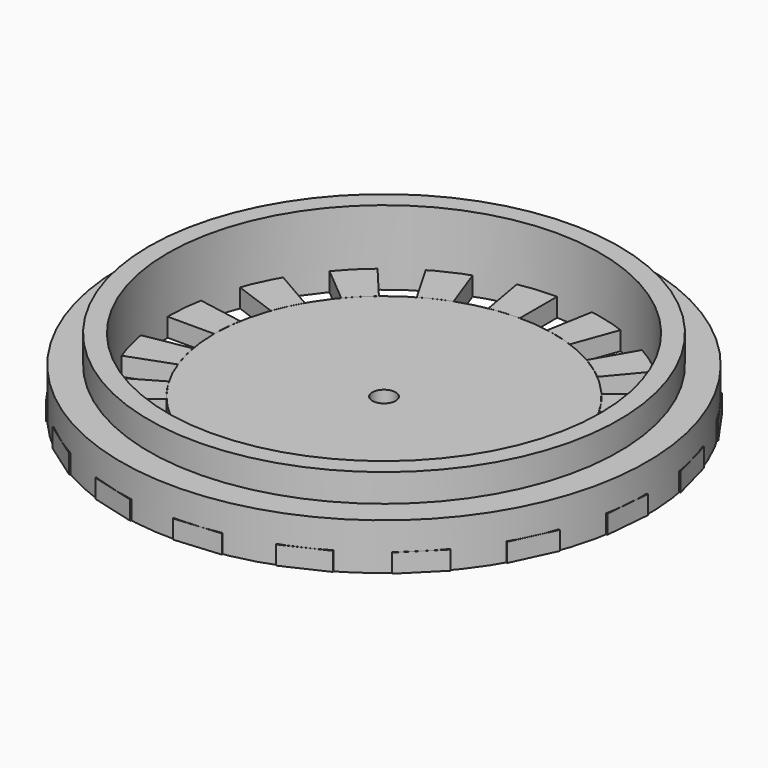
from build123d import *

# Parameters (mm, degrees)
F0_W     = 17
F0_H     = 2
F0_W_2   = 3
F0_H_2   = 5
F3_DEPTH = 2


with BuildPart() as f1:
    # F0 (on Front) → F1 (revolve)
    with BuildSketch(Plane.XZ):
        with Locations((-9.75, 1)):
            Rectangle(F0_W, F0_H)
        Polygon((-25.25, 0), (-23.25, 0), (-23.25, 8), (-25.25, 8), (-25.25, 5), align=None)
        with Locations((-26.75, 2.5)):
            Rectangle(F0_W_2, F0_H_2)
    revolve(axis=Axis((0, 0, -5.287794), (0, 0, -1)))


with BuildPart() as f3:
    # F2 (on face) → F3 (new body)
    with BuildSketch(Plane(origin=(0, 0, 0), x_dir=(1, 0, 0), z_dir=(0, 0, -1))):
        with BuildLine():
            ThreePointArc((11.730874, -13.980311), (10.46777, -14.949525), (9.125, -15.804964))
            Line((9.125, -15.804964), (14.177606, -24.556333))
            Line((14.177606, -24.556333), (18.226378, -21.721352))
            Line((18.226378, -21.721352), (11.730874, -13.980311))
        make_face()
        with BuildLine():
            ThreePointArc((6.241868, -17.14939), (4.723448, -17.628146), (3.169079, -17.972741))
            Line((3.169079, -17.972741), (4.923831, -27.924432))
            Line((4.923831, -27.924432), (9.698053, -26.645183))
            Line((9.698053, -26.645183), (6.241868, -17.14939))
        make_face()
        with BuildLine():
            Line((0, -28.355211), (0, -18.25))
            ThreePointArc((0, -18.25), (-1.590592, -18.180553), (-3.169079, -17.972741))
            Line((-3.169079, -17.972741), (-4.923831, -27.924432))
            Line((-4.923831, -27.924432), (0, -28.355211))
        make_face()
        with BuildLine():
            Line((-9.698053, -26.645183), (-6.241868, -17.14939))
            ThreePointArc((-6.241868, -17.14939), (-7.712783, -16.540117), (-9.125, -15.804964))
            Line((-9.125, -15.804964), (-14.177606, -24.556333))
            Line((-14.177606, -24.556333), (-9.698053, -26.645183))
        make_face()
        with BuildLine():
            Line((-18.226378, -21.721352), (-11.730874, -13.980311))
            ThreePointArc((-11.730874, -13.980311), (-12.904699, -12.904699), (-13.980311, -11.730874))
            Line((-13.980311, -11.730874), (-21.721352, -18.226378))
            Line((-21.721352, -18.226378), (-18.226378, -21.721352))
        make_face()
        with BuildLine():
            Line((-24.556333, -14.177606), (-15.804964, -9.125))
            ThreePointArc((-15.804964, -9.125), (-16.540117, -7.712783), (-17.14939, -6.241868))
            Line((-17.14939, -6.241868), (-26.645183, -9.698053))
            Line((-26.645183, -9.698053), (-24.556333, -14.177606))
        make_face()
        with BuildLine():
            Line((-27.924432, -4.923831), (-17.972741, -3.169079))
            ThreePointArc((-17.972741, -3.169079), (-18.180553, -1.590592), (-18.25, 0))
            Line((-18.25, 0), (-28.355211, 0))
            Line((-28.355211, 0), (-27.924432, -4.923831))
        make_face()
        with BuildLine():
            Line((-27.924432, 4.923831), (-17.972741, 3.169079))
            ThreePointArc((-17.972741, 3.169079), (-17.628146, 4.723448), (-17.14939, 6.241868))
            Line((-17.14939, 6.241868), (-26.645183, 9.698053))
            Line((-26.645183, 9.698053), (-27.924432, 4.923831))
        make_face()
        with BuildLine():
            Line((-24.556333, 14.177606), (-15.804964, 9.125))
            ThreePointArc((-15.804964, 9.125), (-14.949525, 10.46777), (-13.980311, 11.730874))
            Line((-13.980311, 11.730874), (-21.721352, 18.226378))
            Line((-21.721352, 18.226378), (-24.556333, 14.177606))
        make_face()
        with BuildLine():
            Line((-18.226378, 21.721352), (-11.730874, 13.980311))
            ThreePointArc((-11.730874, 13.980311), (-10.46777, 14.949525), (-9.125, 15.804964))
            Line((-9.125, 15.804964), (-14.177606, 24.556333))
            Line((-14.177606, 24.556333), (-18.226378, 21.721352))
        make_face()
        with BuildLine():
            Line((-9.698053, 26.645183), (-6.241868, 17.14939))
            ThreePointArc((-6.241868, 17.14939), (-4.723448, 17.628146), (-3.169079, 17.972741))
            Line((-3.169079, 17.972741), (-4.923831, 27.924432))
            Line((-4.923831, 27.924432), (-9.698053, 26.645183))
        make_face()
        with BuildLine():
            ThreePointArc((0, 18.25), (1.590592, 18.180553), (3.169079, 17.972741))
            Line((3.169079, 17.972741), (4.923831, 27.924432))
            Line((4.923831, 27.924432), (0, 28.355211))
            Line((0, 28.355211), (0, 18.25))
        make_face()
        with BuildLine():
            ThreePointArc((6.241868, 17.14939), (7.712783, 16.540117), (9.125, 15.804964))
            Line((9.125, 15.804964), (14.177606, 24.556333))
            Line((14.177606, 24.556333), (9.698053, 26.645183))
            Line((9.698053, 26.645183), (6.241868, 17.14939))
        make_face()
        with BuildLine():
            ThreePointArc((11.730874, 13.980311), (12.904699, 12.904699), (13.980311, 11.730874))
            Line((13.980311, 11.730874), (21.721352, 18.226378))
            Line((21.721352, 18.226378), (18.226378, 21.721352))
            Line((18.226378, 21.721352), (11.730874, 13.980311))
        make_face()
        with BuildLine():
            ThreePointArc((15.804964, 9.125), (16.540117, 7.712783), (17.14939, 6.241868))
            Line((17.14939, 6.241868), (26.645183, 9.698053))
            Line((26.645183, 9.698053), (24.556333, 14.177606))
            Line((24.556333, 14.177606), (15.804964, 9.125))
        make_face()
        with BuildLine():
            ThreePointArc((17.972741, 3.169079), (18.180553, 1.590592), (18.25, 0))
            Line((18.25, 0), (28.355211, 0))
            Line((28.355211, 0), (27.924432, 4.923831))
            Line((27.924432, 4.923831), (17.972741, 3.169079))
        make_face()
        with BuildLine():
            ThreePointArc((17.972741, -3.169079), (17.628146, -4.723448), (17.14939, -6.241868))
            Line((17.14939, -6.241868), (26.645183, -9.698053))
            Line((26.645183, -9.698053), (27.924432, -4.923831))
            Line((27.924432, -4.923831), (17.972741, -3.169079))
        make_face()
        with BuildLine():
            ThreePointArc((15.804964, -9.125), (14.949525, -10.46777), (13.980311, -11.730874))
            Line((13.980311, -11.730874), (21.721352, -18.226378))
            Line((21.721352, -18.226378), (24.556333, -14.177606))
            Line((24.556333, -14.177606), (15.804964, -9.125))
        make_face()
    extrude(amount=-F3_DEPTH)


solid = Compound([f1.part, f3.part])
